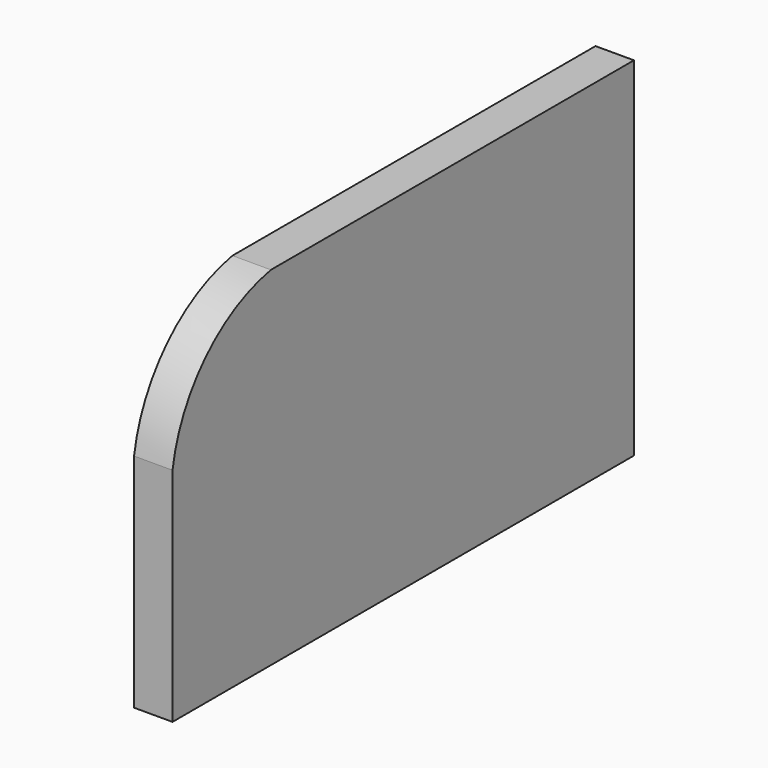
from build123d import *

# Parameters (mm, degrees)
F0_W     = 300
F0_H     = 181
F1_DEPTH = 20
F3_DEPTH = 25


with BuildPart() as f1:
    # F0 (on Right) → F1 (new body)
    with BuildSketch(Plane.YZ):
        with Locations((56.9665074348, 47.0284177661)):
            Rectangle(F0_W, F0_H)
    extrude(amount=F1_DEPTH)

    # F2 (on face) → F3 (cut)
    with BuildSketch(Plane(origin=(0, 0, 0), x_dir=(0, -1, 0), z_dir=(-1, 0, 0))):
        with BuildLine():
            ThreePointArc((29.0761264443, 137.5284177661), (71.4985884861, 114.8138843724), (93.0334925652, 71.7806040038))
            Line((93.0334925652, 71.7806040038), (93.0334925652, 137.5284177661))
            Line((93.0334925652, 137.5284177661), (29.0761264443, 137.5284177661))
        make_face()
    extrude(amount=-F3_DEPTH, mode=Mode.SUBTRACT)


solid = f1.part
